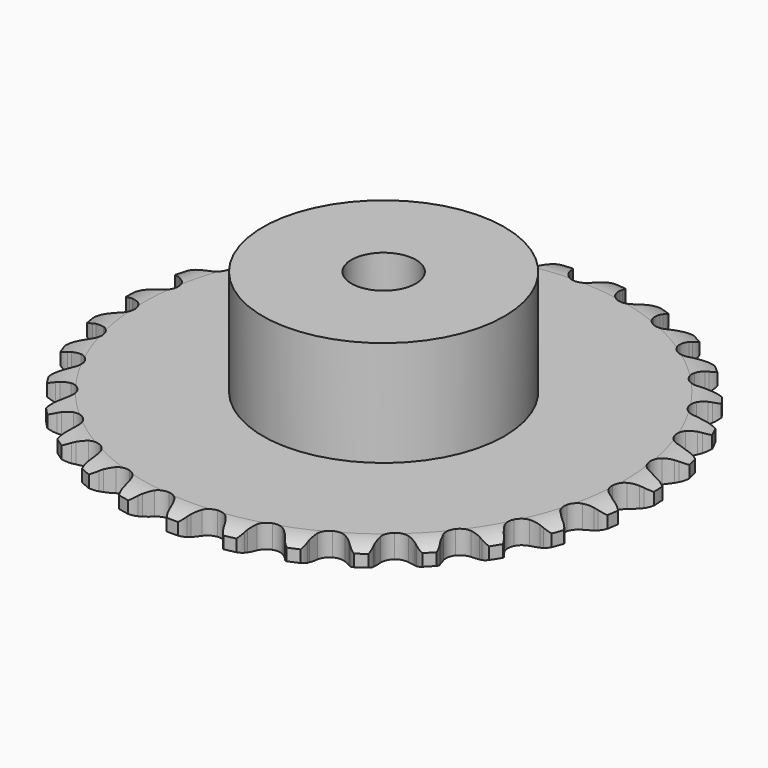
from build123d import *

# Parameters (mm, degrees)
PAD_DEPTH         = 2.9
SKETCH001_R       = 15
PAD001_DEPTH      = 16
SKETCH002_R       = 4
POCKET_DEPTH      = 0.0010001
POCKET_DEPTH_BACK = 16.001


with BuildPart() as part:
    # Sprocket → Pad (new body)
    with BuildSketch(Plane.XY):
        with BuildLine():
            ThreePointArc((-3.3849889292, 33.2873134549), (-2.6125189688, 32.6922565653), (-2.1060581984, 31.8590098854))
            Line((-2.1060581984, 31.8590098854), (-1.9451043495, 31.4339989131))
            ThreePointArc((-1.9451043495, 31.4339989131), (-1.6883747984, 30.8781387072), (-1.3559140285, 30.3639787443))
            ThreePointArc((-1.3559140285, 30.3639787443), (-0.7577622572, 29.8656460031), (0, 29.6869915206))
            ThreePointArc((0, 29.6869915206), (0.7577622572, 29.8656460031), (1.3559140285, 30.3639787443))
            ThreePointArc((1.3559140285, 30.3639787443), (1.6883747984, 30.8781387072), (1.9451043495, 31.4339989131))
            Line((1.9451043495, 31.4339989131), (2.1060581984, 31.8590098854))
            ThreePointArc((2.1060581984, 31.8590098854), (2.6125189688, 32.6922565653), (3.3849889292, 33.2873134549))
            ThreePointArc((3.3849889292, 33.2873134549), (4.0218623129, 32.5489403549), (4.3502244781, 31.63080048))
            Line((4.3502244781, 31.63080048), (4.4223295125, 31.1820897357))
            ThreePointArc((4.4223295125, 31.1820897357), (4.5619099578, 30.5859287421), (4.7840655965, 30.0153698029))
            ThreePointArc((4.7840655965, 30.0153698029), (5.2696595226, 29.4068308958), (5.975947459, 29.0792970602))
            ThreePointArc((5.975947459, 29.0792970602), (6.7541611612, 29.1017580539), (7.440382374, 29.4694828283))
            Line((7.440382374, 29.4694828283), (8.2329054109, 30.3989964817))
            ThreePointArc((8.2329054109, 30.3989964817), (8.3494791172, 30.5941404899), (8.4761186047, 30.7829076829))
            ThreePointArc((8.4761186047, 30.7829076829), (9.139943417, 31.4971479507), (10.0163849432, 31.9245269309))
            ThreePointArc((10.0163849432, 31.9245269309), (10.491588079, 31.0730667021), (10.6284084533, 30.1076223864))
            Line((10.6284084533, 30.1076223864), (10.6087126846, 29.6535821407))
            ThreePointArc((10.6087126846, 29.6535821407), (10.6254295843, 29.0415272607), (10.7281850139, 28.4379280952))
            ThreePointArc((10.7281850139, 28.4379280952), (11.0813408224, 27.7440966765), (11.7072389269, 27.2810927614))
            ThreePointArc((11.7072389269, 27.2810927614), (12.4740439137, 27.1464407107), (13.2202405908, 27.3685028228))
            Line((13.2202405908, 27.3685028228), (14.1836503574, 28.1194555626))
            ThreePointArc((14.1836503574, 28.1194555626), (14.3371199931, 28.287138847), (14.4991657195, 28.4465496229))
            ThreePointArc((14.4991657195, 28.4465496229), (15.2931775078, 29.0125423982), (16.2377089807, 29.2547465235))
            ThreePointArc((16.2377089807, 29.2547465235), (16.5317869964, 28.3250580476), (16.4714641377, 27.3518346949))
            Line((16.4714641377, 27.3518346949), (16.360773913, 26.9110534088))
            ThreePointArc((16.360773913, 26.9110534088), (16.2539428751, 26.3081622409), (16.2330912764, 25.6962342698))
            ThreePointArc((16.2330912764, 25.6962342698), (16.439350727, 24.9455158795), (16.9592346575, 24.3659973196))
            ThreePointArc((16.9592346575, 24.3659973196), (17.6832378427, 24.0797448952), (18.4588606045, 24.147053096))
            Line((18.4588606045, 24.147053096), (19.5537149918, 24.6887008289))
            ThreePointArc((19.5537149918, 24.6887008289), (19.737797492, 24.822058416), (19.9286152862, 24.9455864791))
            ThreePointArc((19.9286152862, 24.9455864791), (20.8203071146, 25.3401599511), (21.7942593047, 25.3872733561))
            ThreePointArc((21.7942593047, 25.3872733561), (21.8951726118, 24.4174181885), (21.6401761449, 23.4762596772))
            Line((21.6401761449, 23.4762596772), (21.443023135, 23.0667829883))
            ThreePointArc((21.443023135, 23.0667829883), (21.2170178349, 22.4977379679), (21.0734128747, 21.9025335944))
            ThreePointArc((21.0734128747, 21.9025335944), (21.1243316812, 21.1256627314), (21.5169173287, 20.4533550846))
            ThreePointArc((21.5169173287, 20.4533550846), (22.1684779367, 20.0272214945), (22.9417726962, 19.9370201784))
            Line((22.9417726962, 19.9370201784), (24.123248237, 20.2471877825))
            ThreePointArc((24.123248237, 20.2471877825), (24.3304072425, 20.3407599971), (24.5421850015, 20.4233480939))
            ThreePointArc((24.5421850015, 20.4233480939), (25.4950509017, 20.6303483783), (26.458550092, 20.4804422346))
            ThreePointArc((26.458550092, 20.4804422346), (26.3621672879, 19.5101263599), (25.9229367981, 18.63956383))
            Line((25.9229367981, 18.63956383), (25.6473924705, 18.2781557621))
            ThreePointArc((25.6473924705, 18.2781557621), (25.3114655917, 17.7662536592), (25.0509864739, 17.2121406201))
            ThreePointArc((25.0509864739, 17.2121406201), (24.9444800144, 16.4409224689), (25.1936948763, 15.7033500893))
            ThreePointArc((25.1936948763, 15.7033500893), (25.7461379393, 15.1547812926), (26.4854459183, 14.9107633121))
            Line((26.4854459183, 14.9107633121), (27.7051728649, 14.9767524893))
            ThreePointArc((27.7051728649, 14.9767524893), (27.9269272618, 15.0267084739), (28.1509947793, 15.064975438))
            ThreePointArc((28.1509947793, 15.064975438), (29.1260243095, 15.0759279189), (30.0396247298, 14.7351394016))
            ThreePointArc((30.0396247298, 14.7351394016), (29.7498917378, 13.8040876658), (29.144409373, 13.0397620496))
            Line((29.144409373, 13.0397620496), (28.8017545448, 12.7412186915))
            ThreePointArc((28.8017545448, 12.7412186915), (28.3696589732, 12.3074168382), (28.0029697434, 11.8170805864))
            ThreePointArc((28.0029697434, 11.8170805864), (27.743398405, 11.0830889088), (27.8390395955, 10.3104480963))
            ThreePointArc((27.8390395955, 10.3104480963), (28.2697480297, 9.6619025641), (28.9448018725, 9.2740580439))
            Line((28.9448018725, 9.2740580439), (30.1528444606, 9.0931671894))
            ThreePointArc((30.1528444606, 9.0931671894), (30.3801155977, 9.0974617402), (30.6072995232, 9.0898409177))
            ThreePointArc((30.6072995232, 9.0898409177), (31.5645748598, 8.9042971992), (32.3908736017, 8.3865782303))
            ThreePointArc((32.3908736017, 8.3865782303), (31.9196521245, 7.5329080007), (31.1727064039, 6.9061108787))
            Line((31.1727064039, 6.9061108787), (30.7769694039, 6.6826546305))
            ThreePointArc((30.7769694039, 6.6826546305), (30.266395183, 6.3447129257), (29.8085081415, 5.9382278852))
            ThreePointArc((29.8085081415, 5.9382278852), (29.4064988051, 5.2715123866), (29.3446507627, 4.4954351468))
            ThreePointArc((29.3446507627, 4.4954351468), (29.6359913141, 3.7734644093), (30.2191542372, 3.2576717497))
            Line((30.2191542372, 3.2576717497), (31.3660550613, 2.8373065565))
            ThreePointArc((31.3660550613, 2.8373065565), (31.5895384316, 2.795763854), (31.8105378285, 2.7425672422))
            ThreePointArc((31.8105378285, 2.7425672422), (32.7108680067, 2.3681235059), (33.4160363026, 1.6946695608))
            ThreePointArc((33.4160363026, 1.6946695608), (32.7826182028, 0.953330197), (31.924789172, 0.489722717))
            Line((31.924789172, 0.489722717), (31.4921715195, 0.3505019038))
            ThreePointArc((31.4921715195, 0.3505019038), (30.9240216178, 0.1222557207), (30.3936827139, -0.1837365634))
            ThreePointArc((30.3936827139, -0.1837365634), (29.8656936891, -0.7558804721), (29.6488884799, -1.5036214458))
            ThreePointArc((29.6488884799, -1.5036214458), (29.7889336321, -2.2694598217), (30.2563308768, -2.8920840086))
            Line((30.2563308768, -2.8920840086), (31.2951356823, -3.5347137403))
            ThreePointArc((31.2951356823, -3.5347137403), (31.5056818504, -3.6203929329), (31.7114489774, -3.7169874585))
            ThreePointArc((31.7114489774, -3.7169874585), (32.5179743741, -4.265001442), (33.073142551, -5.0666190796))
            ThreePointArc((33.073142551, -5.0666190796), (32.3034600401, -5.665277057), (31.3698673203, -5.9467147502))
            Line((31.3698673203, -5.9467147502), (30.918080433, -5.996000412))
            ThreePointArc((30.918080433, -5.996000412), (30.3156149743, -6.105206648), (29.7345363449, -6.2981788155))
            ThreePointArc((29.7345363449, -6.2981788155), (29.1021835643, -6.7523274955), (28.7392972191, -7.4411195998))
            ThreePointArc((28.7392972191, -7.4411195998), (28.7223135071, -8.219472101), (29.0548097753, -8.9234375079))
            Line((29.0548097753, -8.9234375079), (29.9429897716, -9.7620224412))
            ThreePointArc((29.9429897716, -9.7620224412), (30.1319789525, -9.8883304077), (30.3140896793, -10.0243682559))
            ThreePointArc((30.3140896793, -10.0243682559), (30.9937910498, -10.7235167297), (31.3762304574, -11.6204797395))
            ThreePointArc((31.3762304574, -11.6204797395), (30.5017944278, -12.0519472026), (29.5306594147, -12.1396930169))
            Line((29.5306594147, -12.1396930169), (29.0781995008, -12.0970257665))
            ThreePointArc((29.0781995008, -12.0970257665), (28.4660834917, -12.0827211391), (27.8580545643, -12.1547728869))
            ThreePointArc((27.8580545643, -12.1547728869), (27.1472266251, -12.4723334378), (26.6531157534, -13.073977443))
            ThreePointArc((26.6531157534, -13.073977443), (26.4797984924, -13.8329782267), (26.6637813479, -14.5894644271))
            Line((26.6637813479, -14.5894644271), (27.3649743414, -15.5896727963))
            ThreePointArc((27.3649743414, -15.5896727963), (27.5246692959, -15.7514384739), (27.6756679879, -15.921350239))
            ThreePointArc((27.6756679879, -15.921350239), (28.2007182784, -16.7430099825), (28.3947718024, -17.6985965936))
            ThreePointArc((28.3947718024, -17.6985965936), (27.4513817679, -17.9452092137), (26.482462843, -17.8356708251))
            Line((26.482462843, -17.8356708251), (26.0478536644, -17.7027974647))
            ThreePointArc((26.0478536644, -17.7027974647), (25.4511472063, -17.5655676072), (24.8410607566, -17.5137491282))
            ThreePointArc((24.8410607566, -17.5137491282), (24.0808590382, -17.6817205837), (23.4757525972, -18.1715851136))
            ThreePointArc((23.4757525972, -18.1715851136), (23.1531974162, -18.8801605985), (23.1811345792, -19.6581969585))
            Line((23.1811345792, -19.6581969585), (23.6666336464, -20.7790801155))
            ThreePointArc((23.6666336464, -20.7790801155), (23.7904964444, -20.9696807981), (23.9042011974, -21.1665102727))
            ThreePointArc((23.9042011974, -21.1665102727), (24.2531047872, -22.0770424394), (24.2508278535, -23.0521308237))
            ThreePointArc((24.2508278535, -23.0521308237), (23.277106313, -23.1037922512), (22.350071131, -22.8014541741))
            Line((22.350071131, -22.8014541741), (21.9511056386, -22.5838145548))
            ThreePointArc((21.9511056386, -22.5838145548), (21.394237964, -22.3292776735), (20.8070710028, -22.1557104224))
            ThreePointArc((20.8070710028, -22.1557104224), (20.0286182529, -22.1672160115), (19.3372893713, -22.5252459546))
            ThreePointArc((19.3372893713, -22.5252459546), (18.8787017174, -23.1543869771), (18.7494494372, -23.9221205967))
            Line((18.7494494372, -23.9221205967), (18.9993781893, -25.1177894534))
            ThreePointArc((18.9993781893, -25.1177894534), (19.0823378731, -25.3294219267), (19.1540936013, -25.5451108889))
            ThreePointArc((19.1540936013, -25.5451108889), (19.3125663364, -26.507238185), (19.114052163, -27.4619081093))
            ThreePointArc((19.114052163, -27.4619081093), (18.1498633907, -27.3165033193), (17.3026648808, -26.8337433102))
            Line((17.3026648808, -26.8337433102), (16.9556767688, -26.5402476234))
            ThreePointArc((16.9556767688, -26.5402476234), (16.4614461057, -26.1788244883), (15.9212373175, -25.8906143287))
            ThreePointArc((15.9212373175, -25.8906143287), (15.156403483, -25.7451830112), (14.4071552466, -25.9567205796))
            ThreePointArc((14.4071552466, -25.9567205796), (13.8313097521, -26.4806700323), (13.5501596322, -27.2066698069))
            Line((13.5501596322, -27.2066698069), (13.5542859567, -28.4281735397))
            ThreePointArc((13.5542859567, -28.4281735397), (13.5929461473, -28.6521735455), (13.6198151625, -28.8778916639))
            ThreePointArc((13.6198151625, -28.8778916639), (13.5813691507, -29.8522244847), (13.1947449311, -30.7473916503))
            ThreePointArc((13.1947449311, -30.7473916503), (12.2795629287, -30.4108735319), (11.5468854975, -29.7674558423))
            Line((11.5468854975, -29.7674558423), (11.2660804998, -29.4101198361))
            ThreePointArc((11.2660804998, -29.4101198361), (10.8547207097, -28.9566071527), (10.3835863057, -28.5655534424))
            ThreePointArc((10.3835863057, -28.5655534424), (9.6636837737, -28.2691391935), (8.8871904933, -28.3255240142))
            ThreePointArc((8.8871904933, -28.3255240142), (8.2176623405, -28.7228313451), (7.7961246999, -29.3773747585))
            Line((7.7961246999, -29.3773747585), (7.5542796645, -30.5747048612))
            ThreePointArc((7.5542796645, -30.5747048612), (7.5470576091, -30.8019018129), (7.5279398908, -31.0284081611))
            ThreePointArc((7.5279398908, -31.0284081611), (7.2941491162, -31.9750572066), (6.7352432914, -32.7740733645))
            ThreePointArc((6.7352432914, -32.7740733645), (5.9065357176, -32.260219009), (5.3183752651, -31.4824852347))
            Line((5.3183752651, -31.4824852347), (5.1152495715, -31.0759382871))
            ThreePointArc((5.1152495715, -31.0759382871), (4.8036017724, -30.548902918), (4.4208300506, -30.0710154418))
            ThreePointArc((4.4208300506, -30.0710154418), (3.7753317153, -29.6357534957), (3.003383117, -29.5346771677))
            ThreePointArc((3.003383117, -29.5346771677), (2.2675828671, -29.7890765678), (1.7229155063, -30.3453665359))
            Line((1.7229155063, -30.3453665359), (1.2450002753, -31.4695041733))
            ThreePointArc((1.2450002753, -31.4695041733), (1.1921916456, -31.690596601), (1.1278698755, -31.9086179826))
            ThreePointArc((1.1278698755, -31.9086179826), (0.7083057598, -32.7888273295), (0, -33.4589806643))
            ThreePointArc((0, -33.4589806643), (-0.7083057598, -32.7888273295), (-1.1278698755, -31.9086179826))
            Line((-1.1278698755, -31.9086179826), (-1.2450002753, -31.4695041733))
            ThreePointArc((-1.2450002753, -31.4695041733), (-1.4441771858, -30.8905230085), (-1.7229155063, -30.3453665359))
            ThreePointArc((-1.7229155063, -30.3453665359), (-2.2675828671, -29.7890765678), (-3.003383117, -29.5346771677))
            ThreePointArc((-3.003383117, -29.5346771677), (-3.7753317153, -29.6357534957), (-4.4208300506, -30.0710154418))
            Line((-4.4208300506, -30.0710154418), (-5.1152495715, -31.0759382871))
            ThreePointArc((-5.1152495715, -31.0759382871), (-5.211482784, -31.2818746407), (-5.3183752651, -31.4824852347))
            ThreePointArc((-5.3183752651, -31.4824852347), (-5.9065357176, -32.260219009), (-6.7352432914, -32.7740733645))
            ThreePointArc((-6.7352432914, -32.7740733645), (-7.2941491162, -31.9750572066), (-7.5279398908, -31.0284081611))
            Line((-7.5279398908, -31.0284081611), (-7.5542796645, -30.5747048612))
            ThreePointArc((-7.5542796645, -30.5747048612), (-7.6328313603, -29.9674814575), (-7.7961246999, -29.3773747585))
            ThreePointArc((-7.7961246999, -29.3773747585), (-8.2176623405, -28.7228313451), (-8.8871904933, -28.3255240142))
            ThreePointArc((-8.8871904933, -28.3255240142), (-9.6636837737, -28.2691391935), (-10.3835863057, -28.5655534424))
            Line((-10.3835863057, -28.5655534424), (-11.2660804998, -29.4101198361))
            ThreePointArc((-11.2660804998, -29.4101198361), (-11.401798496, -29.5924690572), (-11.5468854975, -29.7674558423))
            ThreePointArc((-11.5468854975, -29.7674558423), (-12.2795629287, -30.4108735319), (-13.1947449311, -30.7473916503))
            ThreePointArc((-13.1947449311, -30.7473916503), (-13.5813691507, -29.8522244847), (-13.6198151625, -28.8778916639))
            Line((-13.6198151625, -28.8778916639), (-13.5542859567, -28.4281735397))
            ThreePointArc((-13.5542859567, -28.4281735397), (-13.5089965221, -27.8175676947), (-13.5501596322, -27.2066698069))
            ThreePointArc((-13.5501596322, -27.2066698069), (-13.8313097521, -26.4806700323), (-14.4071552466, -25.9567205796))
            ThreePointArc((-14.4071552466, -25.9567205796), (-15.156403483, -25.7451830112), (-15.9212373175, -25.8906143287))
            Line((-15.9212373175, -25.8906143287), (-16.9556767688, -26.5402476234))
            ThreePointArc((-16.9556767688, -26.5402476234), (-17.1253232379, -26.6915443136), (-17.3026648808, -26.8337433102))
            ThreePointArc((-17.3026648808, -26.8337433102), (-18.1498633907, -27.3165033193), (-19.114052163, -27.4619081093))
            ThreePointArc((-19.114052163, -27.4619081093), (-19.3125663364, -26.507238185), (-19.1540936013, -25.5451108889))
            Line((-19.1540936013, -25.5451108889), (-18.9993781893, -25.1177894534))
            ThreePointArc((-18.9993781893, -25.1177894534), (-18.8321017791, -24.5287994419), (-18.7494494372, -23.9221205967))
            ThreePointArc((-18.7494494372, -23.9221205967), (-18.8787017174, -23.1543869771), (-19.3372893713, -22.5252459546))
            ThreePointArc((-19.3372893713, -22.5252459546), (-20.0286182529, -22.1672160115), (-20.8070710028, -22.1557104224))
            Line((-20.8070710028, -22.1557104224), (-21.9511056386, -22.5838145548))
            ThreePointArc((-21.9511056386, -22.5838145548), (-22.1477352344, -22.6978646096), (-22.350071131, -22.8014541741))
            ThreePointArc((-22.350071131, -22.8014541741), (-23.277106313, -23.1037922512), (-24.2508278535, -23.0521308237))
            ThreePointArc((-24.2508278535, -23.0521308237), (-24.2531047872, -22.0770424394), (-23.9042011974, -21.1665102727))
            Line((-23.9042011974, -21.1665102727), (-23.6666336464, -20.7790801155))
            ThreePointArc((-23.6666336464, -20.7790801155), (-23.3842185766, -20.2358192581), (-23.1811345792, -19.6581969585))
            ThreePointArc((-23.1811345792, -19.6581969585), (-23.1531974162, -18.8801605985), (-23.4757525972, -18.1715851136))
            ThreePointArc((-23.4757525972, -18.1715851136), (-24.0808590382, -17.6817205837), (-24.8410607566, -17.5137491282))
            Line((-24.8410607566, -17.5137491282), (-26.0478536644, -17.7027974647))
            ThreePointArc((-26.0478536644, -17.7027974647), (-26.2634163481, -17.7749316616), (-26.482462843, -17.8356708251))
            ThreePointArc((-26.482462843, -17.8356708251), (-27.4513817679, -17.9452092137), (-28.3947718024, -17.6985965936))
            ThreePointArc((-28.3947718024, -17.6985965936), (-28.2007182784, -16.7430099825), (-27.6756679879, -15.921350239))
            Line((-27.6756679879, -15.921350239), (-27.3649743414, -15.5896727963))
            ThreePointArc((-27.3649743414, -15.5896727963), (-26.978982718, -15.1143822561), (-26.6637813479, -14.5894644271))
            ThreePointArc((-26.6637813479, -14.5894644271), (-26.4797984924, -13.8329782267), (-26.6531157534, -13.073977443))
            ThreePointArc((-26.6531157534, -13.073977443), (-27.1472266251, -12.4723334378), (-27.8580545643, -12.1547728869))
            Line((-27.8580545643, -12.1547728869), (-29.0781995008, -12.0970257665))
            ThreePointArc((-29.0781995008, -12.0970257665), (-29.3038701107, -12.1242909229), (-29.5306594147, -12.1396930169))
            ThreePointArc((-29.5306594147, -12.1396930169), (-30.5017944278, -12.0519472026), (-31.3762304574, -11.6204797395))
            ThreePointArc((-31.3762304574, -11.6204797395), (-30.9937910498, -10.7235167297), (-30.3140896793, -10.0243682559))
            Line((-30.3140896793, -10.0243682559), (-29.9429897716, -9.7620224412))
            ThreePointArc((-29.9429897716, -9.7620224412), (-29.469224137, -9.3741606688), (-29.0548097753, -8.9234375079))
            ThreePointArc((-29.0548097753, -8.9234375079), (-28.7223135071, -8.219472101), (-28.7392972191, -7.4411195998))
            ThreePointArc((-28.7392972191, -7.4411195998), (-29.1021835643, -6.7523274955), (-29.7345363449, -6.2981788155))
            Line((-29.7345363449, -6.2981788155), (-30.918080433, -5.996000412))
            ThreePointArc((-30.918080433, -5.996000412), (-31.1446199879, -5.9772802893), (-31.3698673203, -5.9467147502))
            ThreePointArc((-31.3698673203, -5.9467147502), (-32.3034600401, -5.665277057), (-33.073142551, -5.0666190796))
            ThreePointArc((-33.073142551, -5.0666190796), (-32.5179743741, -4.265001442), (-31.7114489774, -3.7169874585))
            Line((-31.7114489774, -3.7169874585), (-31.2951356823, -3.5347137403))
            ThreePointArc((-31.2951356823, -3.5347137403), (-30.7529920574, -3.2501598423), (-30.2563308768, -2.8920840086))
            ThreePointArc((-30.2563308768, -2.8920840086), (-29.7889336321, -2.2694598217), (-29.6488884799, -1.5036214458))
            ThreePointArc((-29.6488884799, -1.5036214458), (-29.8656936891, -0.7558804721), (-30.3936827139, -0.1837365634))
            Line((-30.3936827139, -0.1837365634), (-31.4921715195, 0.3505019038))
            ThreePointArc((-31.4921715195, 0.3505019038), (-31.7103054635, 0.4144409017), (-31.924789172, 0.489722717))
            ThreePointArc((-31.924789172, 0.489722717), (-32.7826182028, 0.953330197), (-33.4160363026, 1.6946695608))
            ThreePointArc((-33.4160363026, 1.6946695608), (-32.7108680067, 2.3681235059), (-31.8105378285, 2.7425672422))
            Line((-31.8105378285, 2.7425672422), (-31.3660550613, 2.8373065565))
            ThreePointArc((-31.3660550613, 2.8373065565), (-30.7777288696, 3.0069029101), (-30.2191542372, 3.2576717497))
            ThreePointArc((-30.2191542372, 3.2576717497), (-29.6359913141, 3.7734644093), (-29.3446507627, 4.4954351468))
            ThreePointArc((-29.3446507627, 4.4954351468), (-29.4064988051, 5.2715123866), (-29.8085081415, 5.9382278852))
            Line((-29.8085081415, 5.9382278852), (-30.7769694039, 6.6826546305))
            ThreePointArc((-30.7769694039, 6.6826546305), (-30.9777673075, 6.7891948334), (-31.1727064039, 6.9061108787))
            ThreePointArc((-31.1727064039, 6.9061108787), (-31.9196521245, 7.5329080007), (-32.3908736017, 8.3865782303))
            ThreePointArc((-32.3908736017, 8.3865782303), (-31.5645748598, 8.9042971992), (-30.6072995232, 9.0898409177))
            Line((-30.6072995232, 9.0898409177), (-30.1528444606, 9.0931671894))
            ThreePointArc((-30.1528444606, 9.0931671894), (-29.5424218457, 9.140862704), (-28.9448018725, 9.2740580439))
            ThreePointArc((-28.9448018725, 9.2740580439), (-28.2697480297, 9.6619025641), (-27.8390395955, 10.3104480963))
            ThreePointArc((-27.8390395955, 10.3104480963), (-27.743398405, 11.0830889088), (-28.0029697434, 11.8170805864))
            Line((-28.0029697434, 11.8170805864), (-28.8017545448, 12.7412186915))
            ThreePointArc((-28.8017545448, 12.7412186915), (-28.9769957183, 12.885998331), (-29.144409373, 13.0397620496))
            ThreePointArc((-29.144409373, 13.0397620496), (-29.7498917378, 13.8040876658), (-30.0396247298, 14.7351394016))
            ThreePointArc((-30.0396247298, 14.7351394016), (-29.1260243095, 15.0759279189), (-28.1509947793, 15.064975438))
            Line((-28.1509947793, 15.064975438), (-27.7051728649, 14.9767524893))
            ThreePointArc((-27.7051728649, 14.9767524893), (-27.0976446003, 14.9005945048), (-26.4854459183, 14.9107633121))
            ThreePointArc((-26.4854459183, 14.9107633121), (-25.7461379393, 15.1547812926), (-25.1936948763, 15.7033500893))
            ThreePointArc((-25.1936948763, 15.7033500893), (-24.9444800144, 16.4409224689), (-25.0509864739, 17.2121406201))
            Line((-25.0509864739, 17.2121406201), (-25.6473924705, 18.2781557621))
            ThreePointArc((-25.6473924705, 18.2781557621), (-25.7899025197, 18.4552475429), (-25.9229367981, 18.63956383))
            ThreePointArc((-25.9229367981, 18.63956383), (-26.3621672879, 19.5101263599), (-26.458550092, 20.4804422346))
            ThreePointArc((-26.458550092, 20.4804422346), (-25.4950509017, 20.6303483783), (-24.5421850015, 20.4233480939))
            Line((-24.5421850015, 20.4233480939), (-24.123248237, 20.2471877825))
            ThreePointArc((-24.123248237, 20.2471877825), (-23.5434866012, 20.0502942159), (-22.9417726962, 19.9370201784))
            ThreePointArc((-22.9417726962, 19.9370201784), (-22.1684779367, 20.0272214945), (-21.5169173287, 20.4533550846))
            ThreePointArc((-21.5169173287, 20.4533550846), (-21.1243316812, 21.1256627314), (-21.0734128747, 21.9025335944))
            Line((-21.0734128747, 21.9025335944), (-21.443023135, 23.0667829883))
            ThreePointArc((-21.443023135, 23.0667829883), (-21.5469676818, 23.2689367519), (-21.6401761449, 23.4762596772))
            ThreePointArc((-21.6401761449, 23.4762596772), (-21.8951726118, 24.4174181885), (-21.7942593047, 25.3872733561))
            ThreePointArc((-21.7942593047, 25.3872733561), (-20.8203071146, 25.3401599511), (-19.9286152862, 24.9455864791))
            Line((-19.9286152862, 24.9455864791), (-19.5537149918, 24.6887008289))
            ThreePointArc((-19.5537149918, 24.6887008289), (-19.0254554943, 24.3791325259), (-18.4588606045, 24.147053096))
            ThreePointArc((-18.4588606045, 24.147053096), (-17.6832378427, 24.0797448952), (-16.9592346575, 24.3659973196))
            ThreePointArc((-16.9592346575, 24.3659973196), (-16.439350727, 24.9455158795), (-16.2330912764, 25.6962342698))
            Line((-16.2330912764, 25.6962342698), (-16.360773913, 26.9110534088))
            ThreePointArc((-16.360773913, 26.9110534088), (-16.4218974553, 27.1299929564), (-16.4714641377, 27.3518346949))
            ThreePointArc((-16.4714641377, 27.3518346949), (-16.5317869964, 28.3250580476), (-16.2377089807, 29.2547465235))
            ThreePointArc((-16.2377089807, 29.2547465235), (-15.2931775078, 29.0125423982), (-14.4991657195, 28.4465496229))
            Line((-14.4991657195, 28.4465496229), (-14.1836503574, 28.1194555626))
            ThreePointArc((-14.1836503574, 28.1194555626), (-13.7285200041, 27.7098862859), (-13.2202405908, 27.3685028228))
            ThreePointArc((-13.2202405908, 27.3685028228), (-12.4740439137, 27.1464407107), (-11.7072389269, 27.2810927614))
            ThreePointArc((-11.7072389269, 27.2810927614), (-11.0813408224, 27.7440966765), (-10.7281850139, 28.4379280952))
            Line((-10.7281850139, 28.4379280952), (-10.6087126846, 29.6535821407))
            ThreePointArc((-10.6087126846, 29.6535821407), (-10.6245128176, 29.8803440615), (-10.6284084533, 30.1076223864))
            ThreePointArc((-10.6284084533, 30.1076223864), (-10.491588079, 31.0730667021), (-10.0163849432, 31.9245269309))
            ThreePointArc((-10.0163849432, 31.9245269309), (-9.139943417, 31.4971479507), (-8.4761186047, 30.7829076829))
            Line((-8.4761186047, 30.7829076829), (-8.2329054109, 30.3989964817))
            ThreePointArc((-8.2329054109, 30.3989964817), (-7.869537292, 29.9061940456), (-7.440382374, 29.4694828283))
            ThreePointArc((-7.440382374, 29.4694828283), (-6.7541611612, 29.1017580539), (-5.975947459, 29.0792970602))
            ThreePointArc((-5.975947459, 29.0792970602), (-5.2696595226, 29.4068308958), (-4.7840655965, 30.0153698029))
            Line((-4.7840655965, 30.0153698029), (-4.4223295125, 31.1820897357))
            ThreePointArc((-4.4223295125, 31.1820897357), (-4.3921593767, 31.40739037), (-4.3502244781, 31.63080048))
            ThreePointArc((-4.3502244781, 31.63080048), (-4.0218623129, 32.5489403549), (-3.3849889292, 33.2873134549))
        make_face()
    extrude(amount=PAD_DEPTH)

    # Sketch → Groove (revolve, cut)
    with BuildSketch(Plane.XZ):
        with BuildLine():
            Line((29.8896735578, 0), (32.8, 0))
            Line((35.7103264422, 0), (32.8, 0))
            Line((35.7103264422, 2.9), (35.7103264422, 0))
            Line((32.8, 2.9), (35.7103264422, 2.9))
            Line((29.8896735578, 2.9), (32.8, 2.9))
            ThreePointArc((32.8, 2.2), (31.3863365125, 2.7225396744), (29.8896735578, 2.9))
            Line((32.8, 0.7), (32.8, 2.2))
            ThreePointArc((29.8896735578, 0), (31.3863365125, 0.1774603256), (32.8, 0.7))
        make_face()
    revolve(axis=Axis((0, 0, 0), (0, 0, 1)), mode=Mode.SUBTRACT)

    # Sketch001 → Pad001 (join)
    with BuildSketch(Plane.XY):
        Circle(SKETCH001_R)
    extrude(amount=PAD001_DEPTH)

    # Sketch002 → Pocket (cut, two sides)
    with BuildSketch(Plane.XY) as pocket_sk:
        Circle(SKETCH002_R)
    extrude(amount=-POCKET_DEPTH, mode=Mode.SUBTRACT)
    extrude(pocket_sk.sketch, amount=POCKET_DEPTH_BACK, mode=Mode.SUBTRACT)


solid = part.part
